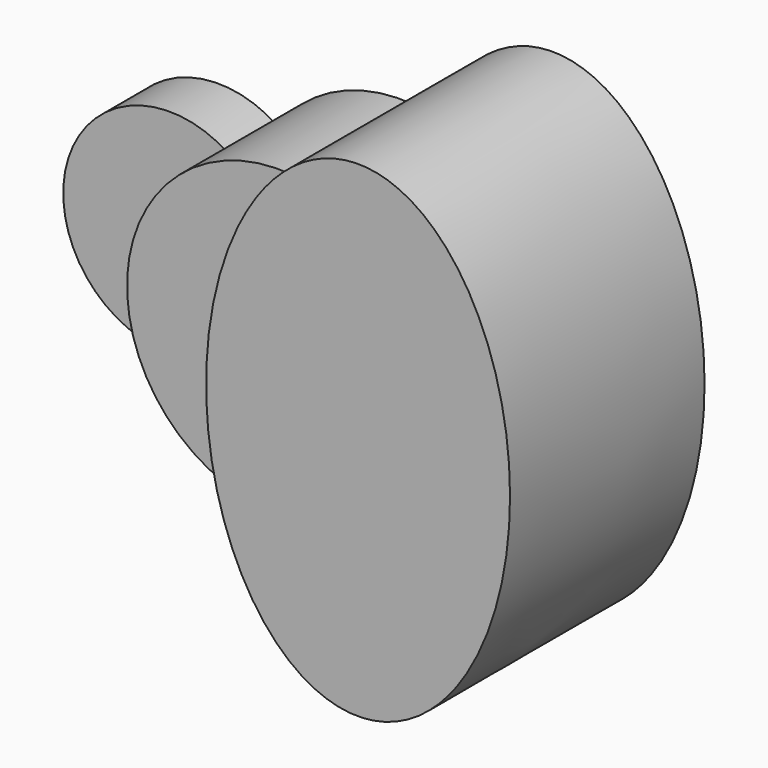
from build123d import *

# Parameters (mm, degrees)
F1_DEPTH = 25.4
F2_DEPTH = 63.5
F3_DEPTH = 101.6


with BuildPart() as f1:
    # F0 (on Front) → F1 (new body)
    with BuildSketch(Plane.XZ):
        with BuildLine():
            ThreePointArc((-63.5, 0), (-60.4501990278, 19.4428248333), (-51.59375, 37.0180356169))
            ThreePointArc((-51.59375, 37.0180356169), (-120.65, 0), (-51.59375, -37.0180356169))
            ThreePointArc((-51.59375, -37.0180356169), (-60.4501990278, -19.4428248333), (-63.5, 0))
        make_face()
    extrude(amount=F1_DEPTH)


with BuildPart() as f2:
    # F0 (on Front) → F2 (new body)
    with BuildSketch(Plane.XZ):
        with BuildLine():
            ThreePointArc((-51.59375, 37.0180356169), (-37.0237934934, 21.0006510316), (-31.75, 0))
            Line((-31.75, 0), (0, 0))
            add(Edge.make_bspline(
                [(13.2439655959, 62.1035214404), (0, 34.6669399309), (0, 0)],
                knots=[0.9131508081, 0.9131508081, 0.9131508081, 1.5707963268, 1.5707963268, 1.5707963268], degree=2, weights=[1, 0.9464231645, 1]))
            ThreePointArc((13.2439655959, 62.1035214404), (-22.9128106244, 59.2220660674), (-51.59375, 37.0180356169))
        make_face()
        with BuildLine():
            Line((-63.5, 0), (-31.75, 0))
            ThreePointArc((-31.75, 0), (-37.0237934934, 21.0006510316), (-51.59375, 37.0180356169))
            ThreePointArc((-51.59375, 37.0180356169), (-60.4501990278, 19.4428248333), (-63.5, 0))
        make_face()
        with BuildLine():
            Line((0, 0), (-31.75, 0))
            ThreePointArc((-31.75, 0), (-37.0237934934, -21.0006510316), (-51.59375, -37.0180356169))
            ThreePointArc((-51.59375, -37.0180356169), (-22.9128106244, -59.2220660674), (13.2439655959, -62.1035214404))
            add(Edge.make_bspline(
                [(0, 0), (0, -34.6669399309), (13.2439655959, -62.1035214404)],
                knots=[1.5707963268, 1.5707963268, 1.5707963268, 2.2284418454, 2.2284418454, 2.2284418454], degree=2, weights=[1, 0.9464231645, 1]))
        make_face()
        with BuildLine():
            ThreePointArc((-51.59375, -37.0180356169), (-37.0237934934, -21.0006510316), (-31.75, 0))
            Line((-31.75, 0), (-63.5, 0))
            ThreePointArc((-63.5, 0), (-60.4501990278, -19.4428248333), (-51.59375, -37.0180356169))
        make_face()
    extrude(amount=F2_DEPTH)


with BuildPart() as f3:
    # F0 (on Front) → F3 (new body)
    with BuildSketch(Plane.XZ):
        with BuildLine():
            add(Edge.make_bspline(
                [(63.5, 101.6), (32.3093875408, 101.6), (13.2439655959, 62.1035214404)],
                knots=[0, 0, 0, 0.9131508081, 0.9131508081, 0.9131508081], degree=2, weights=[1, 0.8975675831, 1]))
            ThreePointArc((13.2439655959, 62.1035214404), (49.3621404284, 39.9453262889), (63.5, 0))
            Line((63.5, 0), (63.5, 101.6))
        make_face()
        with BuildLine():
            ThreePointArc((63.5, 0), (49.3621404284, -39.9453262889), (13.2439655959, -62.1035214404))
            add(Edge.make_bspline(
                [(13.2439655959, -62.1035214404), (75.5537087854, -191.1861844445), (120.4955415237, -44.7930922222), (165.437374262, 101.6), (63.5, 101.6)],
                knots=[2.2284418454, 2.2284418454, 2.2284418454, 4.2558135763, 4.2558135763, 6.2831853072, 6.2831853072, 6.2831853072], degree=2, weights=[1, 0.5287358074, 1, 0.5287358074, 1]))
            Line((63.5, 101.6), (63.5, 0))
        make_face()
        with BuildLine():
            add(Edge.make_bspline(
                [(13.2439655959, 62.1035214404), (0, 34.6669399309), (0, 0)],
                knots=[0.9131508081, 0.9131508081, 0.9131508081, 1.5707963268, 1.5707963268, 1.5707963268], degree=2, weights=[1, 0.9464231645, 1]))
            add(Edge.make_bspline(
                [(0, 0), (0, -34.6669399309), (13.2439655959, -62.1035214404)],
                knots=[1.5707963268, 1.5707963268, 1.5707963268, 2.2284418454, 2.2284418454, 2.2284418454], degree=2, weights=[1, 0.9464231645, 1]))
            ThreePointArc((13.2439655959, -62.1035214404), (49.3621404284, -39.9453262889), (63.5, 0))
            ThreePointArc((63.5, 0), (49.3621404284, 39.9453262889), (13.2439655959, 62.1035214404))
        make_face()
    extrude(amount=F3_DEPTH)


solid = Compound([f1.part, f2.part, f3.part])
